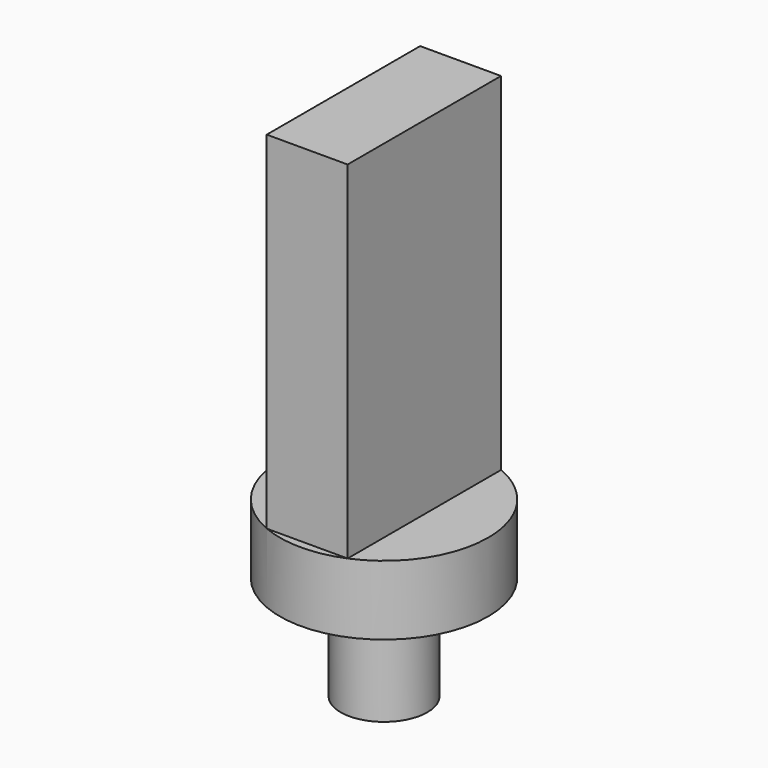
from build123d import *

# Parameters (mm, degrees)
F0_R     = 1.25
F1_DEPTH = 3
F2_R     = 3
F3_DEPTH = 2
F4_W     = 2.331915
F4_H     = 5.528303
F5_DEPTH = 10


with BuildPart() as f1:
    # F0 (on Top) → F1 (new body)
    with BuildSketch(Plane.XY):
        Circle(F0_R)
    extrude(amount=F1_DEPTH)

    # F2 (on face) → F3 (join)
    with BuildSketch(Plane.XY.offset(3)):
        Circle(F2_R)
    extrude(amount=F3_DEPTH)

    # F4 (on face) → F5 (join)
    with BuildSketch(Plane.XY.offset(5)):
        with Locations((-0.003007, -0.001268)):
            Rectangle(F4_W, F4_H)
    extrude(amount=F5_DEPTH)


solid = f1.part
